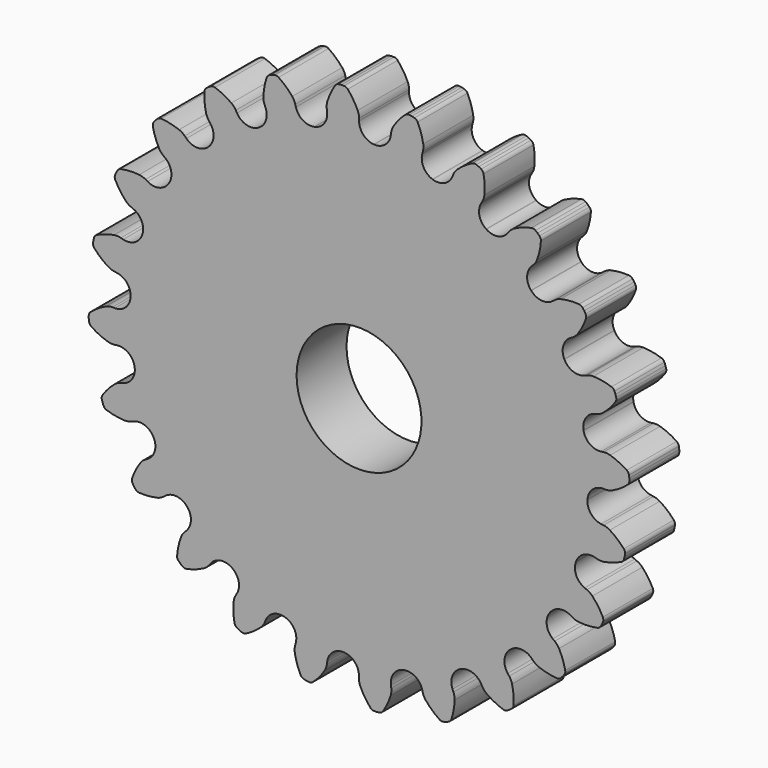
from build123d import *

# Parameters (mm, degrees)
F1_DEPTH = 6.35
F3_D     = 12.7


with BuildPart() as f1:
    # F0 (on Front) → F1 (new body)
    with BuildSketch(Plane.XZ):
        with BuildLine():
            ThreePointArc((-3.246921, 24.61846), (-3.533117, 23.476949), (-4.522605, 22.83987))
            ThreePointArc((-4.522605, 22.83987), (-4.542353, 22.835951), (-4.562098, 22.832014))
            ThreePointArc((-4.562098, 22.832014), (-5.720065, 23.041938), (-6.421313, 23.987034))
            Line((-6.421313, 23.987034), (-6.485774, 24.227606))
            ThreePointArc((-6.485774, 24.227606), (-6.607914, 24.544327), (-6.794114, 24.828157))
            ThreePointArc((-6.794114, 24.828157), (-7.440894, 25.507572), (-8.180709, 26.08429))
            ThreePointArc((-8.180709, 26.08429), (-8.380044, 26.162918), (-8.594066, 26.152359))
            Line((-8.594066, 26.152359), (-8.853896, 26.082737))
            Line((-8.853896, 26.082737), (-9.102417, 25.979797))
            ThreePointArc((-9.102417, 25.979797), (-9.278639, 25.857886), (-9.388917, 25.674159))
            ThreePointArc((-9.388917, 25.674159), (-9.624768, 24.766247), (-9.724291, 23.833496))
            ThreePointArc((-9.724291, 23.833496), (-9.699229, 23.494967), (-9.603322, 23.169341))
            Line((-9.603322, 23.169341), (-9.508011, 22.939241))
            ThreePointArc((-9.508011, 22.939241), (-9.48901, 21.762553), (-10.279894, 20.891084))
            ThreePointArc((-10.279894, 20.891084), (-10.297955, 20.882187), (-10.316008, 20.873274))
            ThreePointArc((-10.316008, 20.873274), (-11.488851, 20.776341), (-12.410813, 21.507738))
            Line((-12.410813, 21.507738), (-12.535342, 21.723428))
            ThreePointArc((-12.535342, 21.723428), (-12.735294, 21.997745), (-12.98861, 22.223712))
            ThreePointArc((-12.98861, 22.223712), (-13.789197, 22.712578), (-14.653069, 23.078167))
            ThreePointArc((-14.653069, 23.078167), (-14.865962, 23.102523), (-15.069958, 23.036931))
            Line((-15.069958, 23.036931), (-15.302916, 22.902433))
            Line((-15.302916, 22.902433), (-15.516325, 22.738678))
            ThreePointArc((-15.516325, 22.738678), (-15.654991, 22.575311), (-15.713959, 22.369302))
            ThreePointArc((-15.713959, 22.369302), (-15.706788, 21.431284), (-15.561507, 20.504558))
            ThreePointArc((-15.561507, 20.504558), (-15.44968, 20.18405), (-15.272763, 19.894342))
            Line((-15.272763, 19.894342), (-15.121146, 19.696751))
            ThreePointArc((-15.121146, 19.696751), (-14.798243, 18.565076), (-15.336626, 17.518605))
            ThreePointArc((-15.336626, 17.518605), (-15.351768, 17.505337), (-15.3669, 17.492055))
            ThreePointArc((-15.3669, 17.492055), (-16.47469, 17.094871), (-17.554537, 17.562724))
            Line((-17.554537, 17.562724), (-17.730648, 17.738835))
            ThreePointArc((-17.730648, 17.738835), (-17.994785, 17.952053), (-18.297954, 18.104758))
            ThreePointArc((-18.297954, 18.104758), (-19.197789, 18.369759), (-20.126847, 18.499304))
            ThreePointArc((-20.126847, 18.499304), (-20.33879, 18.467729), (-20.518858, 18.351574))
            Line((-20.518858, 18.351574), (-20.709068, 18.161365))
            Line((-20.709068, 18.161365), (-20.872822, 17.947956))
            ThreePointArc((-20.872822, 17.947956), (-20.96448, 17.754266), (-20.96812, 17.540015))
            ThreePointArc((-20.96812, 17.540015), (-20.718417, 16.635815), (-20.338231, 15.778267))
            ThreePointArc((-20.338231, 15.778267), (-20.147262, 15.497624), (-19.901391, 15.263577))
            Line((-19.901391, 15.263577), (-19.7038, 15.11196))
            ThreePointArc((-19.7038, 15.11196), (-19.099001, 14.102419), (-19.348191, 12.952262))
            ThreePointArc((-19.348191, 12.952262), (-19.359384, 12.935527), (-19.370562, 12.918782))
            ThreePointArc((-19.370562, 12.918782), (-20.337807, 12.248414), (-21.501948, 12.420841))
            Line((-21.501948, 12.420841), (-21.717639, 12.54537))
            ThreePointArc((-21.717639, 12.54537), (-22.027961, 12.682959), (-22.360323, 12.751994))
            ThreePointArc((-22.360323, 12.751994), (-23.298084, 12.775071), (-24.229013, 12.659744))
            ThreePointArc((-24.229013, 12.659744), (-24.425562, 12.574391), (-24.569432, 12.415588))
            Line((-24.569432, 12.415588), (-24.70393, 12.18263))
            Line((-24.70393, 12.18263), (-24.806871, 11.93411))
            ThreePointArc((-24.806871, 11.93411), (-24.845275, 11.723297), (-24.793339, 11.515405))
            ThreePointArc((-24.793339, 11.515405), (-24.31812, 10.706643), (-23.728939, 9.976714))
            ThreePointArc((-23.728939, 9.976714), (-23.471841, 9.75506), (-23.173772, 9.592624))
            Line((-23.173772, 9.592624), (-22.943672, 9.497314))
            ThreePointArc((-22.943672, 9.497314), (-22.098193, 8.678705), (-22.04121, 7.503244))
            ThreePointArc((-22.04121, 7.503244), (-22.04769, 7.484182), (-22.054153, 7.465115))
            ThreePointArc((-22.054153, 7.465115), (-22.814936, 6.567247), (-23.984037, 6.432497))
            Line((-23.984037, 6.432497), (-24.224609, 6.496958))
            ThreePointArc((-24.224609, 6.496958), (-24.559967, 6.549542), (-24.898872, 6.530203))
            ThreePointArc((-24.898872, 6.530203), (-25.810653, 6.309783), (-26.680012, 5.957444))
            ThreePointArc((-26.680012, 5.957444), (-26.847773, 5.824128), (-26.94564, 5.6335))
            Line((-26.94564, 5.6335), (-27.015261, 5.37367))
            Line((-27.015261, 5.37367), (-27.050372, 5.106974))
            ThreePointArc((-27.050372, 5.106974), (-27.032906, 4.893405), (-26.928932, 4.706038))
            ThreePointArc((-26.928932, 4.706038), (-26.260583, 4.04783), (-25.502559, 3.495265))
            ThreePointArc((-25.502559, 3.495265), (-25.196852, 3.347705), (-24.866898, 3.26795))
            Line((-24.866898, 3.26795), (-24.619971, 3.235441))
            ThreePointArc((-24.619971, 3.235441), (-23.591429, 2.663553), (-23.232156, 1.542892))
            ThreePointArc((-23.232156, 1.542892), (-23.233482, 1.522803), (-23.23479, 1.502712))
            ThreePointArc((-23.23479, 1.502712), (-23.737265, 0.438534), (-24.831654, 0.005789))
            Line((-24.831654, 0.005789), (-25.080712, 0.005789))
            ThreePointArc((-25.080712, 0.005789), (-25.418253, -0.030216), (-25.740604, -0.13661))
            ThreePointArc((-25.740604, -0.13661), (-26.564268, -0.585506), (-27.312813, -1.150847))
            ThreePointArc((-27.312813, -1.150847), (-27.440353, -1.323039), (-27.485547, -1.532501))
            Line((-27.485547, -1.532501), (-27.485547, -1.801498))
            Line((-27.485547, -1.801498), (-27.450435, -2.068193))
            ThreePointArc((-27.450435, -2.068193), (-27.378288, -2.269964), (-27.229364, -2.424037))
            ThreePointArc((-27.229364, -2.424037), (-26.413431, -2.886836), (-25.538221, -3.224381))
            ThreePointArc((-25.538221, -3.224381), (-25.20474, -3.287791), (-24.865387, -3.27943))
            Line((-24.865387, -3.27943), (-24.61846, -3.246921))
            ThreePointArc((-24.61846, -3.246921), (-23.476949, -3.533117), (-22.83987, -4.522605))
            ThreePointArc((-22.83987, -4.522605), (-22.835951, -4.542353), (-22.832014, -4.562098))
            ThreePointArc((-22.832014, -4.562098), (-23.041938, -5.720065), (-23.987034, -6.421313))
            Line((-23.987034, -6.421313), (-24.227606, -6.485774))
            ThreePointArc((-24.227606, -6.485774), (-24.544327, -6.607914), (-24.828157, -6.794114))
            ThreePointArc((-24.828157, -6.794114), (-25.507572, -7.440894), (-26.08429, -8.180709))
            ThreePointArc((-26.08429, -8.180709), (-26.162918, -8.380044), (-26.152359, -8.594066))
            Line((-26.152359, -8.594066), (-26.082737, -8.853896))
            Line((-26.082737, -8.853896), (-25.979797, -9.102417))
            ThreePointArc((-25.979797, -9.102417), (-25.857886, -9.278639), (-25.674159, -9.388917))
            ThreePointArc((-25.674159, -9.388917), (-24.766247, -9.624768), (-23.833496, -9.724291))
            ThreePointArc((-23.833496, -9.724291), (-23.494967, -9.699229), (-23.169341, -9.603322))
            Line((-23.169341, -9.603322), (-22.939241, -9.508011))
            ThreePointArc((-22.939241, -9.508011), (-21.762553, -9.48901), (-20.891084, -10.279894))
            ThreePointArc((-20.891084, -10.279894), (-20.882187, -10.297955), (-20.873274, -10.316008))
            ThreePointArc((-20.873274, -10.316008), (-20.776341, -11.488851), (-21.507738, -12.410813))
            Line((-21.507738, -12.410813), (-21.723428, -12.535342))
            ThreePointArc((-21.723428, -12.535342), (-21.997745, -12.735294), (-22.223712, -12.98861))
            ThreePointArc((-22.223712, -12.98861), (-22.712578, -13.789197), (-23.078167, -14.653069))
            ThreePointArc((-23.078167, -14.653069), (-23.102523, -14.865962), (-23.036931, -15.069958))
            Line((-23.036931, -15.069958), (-22.902433, -15.302916))
            Line((-22.902433, -15.302916), (-22.738678, -15.516325))
            ThreePointArc((-22.738678, -15.516325), (-22.575311, -15.654991), (-22.369302, -15.713959))
            ThreePointArc((-22.369302, -15.713959), (-21.431284, -15.706788), (-20.504558, -15.561507))
            ThreePointArc((-20.504558, -15.561507), (-20.18405, -15.44968), (-19.894342, -15.272763))
            Line((-19.894342, -15.272763), (-19.696751, -15.121146))
            ThreePointArc((-19.696751, -15.121146), (-18.565076, -14.798243), (-17.518605, -15.336626))
            ThreePointArc((-17.518605, -15.336626), (-17.505337, -15.351768), (-17.492055, -15.3669))
            ThreePointArc((-17.492055, -15.3669), (-17.094871, -16.47469), (-17.562724, -17.554537))
            Line((-17.562724, -17.554537), (-17.738835, -17.730648))
            ThreePointArc((-17.738835, -17.730648), (-17.952053, -17.994785), (-18.104758, -18.297954))
            ThreePointArc((-18.104758, -18.297954), (-18.369759, -19.197789), (-18.499304, -20.126847))
            ThreePointArc((-18.499304, -20.126847), (-18.467729, -20.33879), (-18.351574, -20.518858))
            Line((-18.351574, -20.518858), (-18.161365, -20.709068))
            Line((-18.161365, -20.709068), (-17.947956, -20.872822))
            ThreePointArc((-17.947956, -20.872822), (-17.754266, -20.96448), (-17.540015, -20.96812))
            ThreePointArc((-17.540015, -20.96812), (-16.635815, -20.718417), (-15.778267, -20.338231))
            ThreePointArc((-15.778267, -20.338231), (-15.497624, -20.147262), (-15.263577, -19.901391))
            Line((-15.263577, -19.901391), (-15.11196, -19.7038))
            ThreePointArc((-15.11196, -19.7038), (-14.102419, -19.099001), (-12.952262, -19.348191))
            ThreePointArc((-12.952262, -19.348191), (-12.935527, -19.359384), (-12.918782, -19.370562))
            ThreePointArc((-12.918782, -19.370562), (-12.248414, -20.337807), (-12.420841, -21.501948))
            Line((-12.420841, -21.501948), (-12.54537, -21.717639))
            ThreePointArc((-12.54537, -21.717639), (-12.682959, -22.027961), (-12.751994, -22.360323))
            ThreePointArc((-12.751994, -22.360323), (-12.775071, -23.298084), (-12.659744, -24.229013))
            ThreePointArc((-12.659744, -24.229013), (-12.574391, -24.425562), (-12.415588, -24.569432))
            Line((-12.415588, -24.569432), (-12.18263, -24.70393))
            Line((-12.18263, -24.70393), (-11.93411, -24.806871))
            ThreePointArc((-11.93411, -24.806871), (-11.723297, -24.845275), (-11.515405, -24.793339))
            ThreePointArc((-11.515405, -24.793339), (-10.706643, -24.31812), (-9.976714, -23.728939))
            ThreePointArc((-9.976714, -23.728939), (-9.75506, -23.471841), (-9.592624, -23.173772))
            Line((-9.592624, -23.173772), (-9.497314, -22.943672))
            ThreePointArc((-9.497314, -22.943672), (-8.678705, -22.098193), (-7.503244, -22.04121))
            ThreePointArc((-7.503244, -22.04121), (-7.484182, -22.04769), (-7.465115, -22.054153))
            ThreePointArc((-7.465115, -22.054153), (-6.567247, -22.814936), (-6.432497, -23.984037))
            Line((-6.432497, -23.984037), (-6.496958, -24.224609))
            ThreePointArc((-6.496958, -24.224609), (-6.549542, -24.559967), (-6.530203, -24.898872))
            ThreePointArc((-6.530203, -24.898872), (-6.309783, -25.810653), (-5.957444, -26.680012))
            ThreePointArc((-5.957444, -26.680012), (-5.824128, -26.847773), (-5.6335, -26.94564))
            Line((-5.6335, -26.94564), (-5.37367, -27.015261))
            Line((-5.37367, -27.015261), (-5.106974, -27.050372))
            ThreePointArc((-5.106974, -27.050372), (-4.893405, -27.032906), (-4.706038, -26.928932))
            ThreePointArc((-4.706038, -26.928932), (-4.04783, -26.260583), (-3.495265, -25.502559))
            ThreePointArc((-3.495265, -25.502559), (-3.347705, -25.196852), (-3.26795, -24.866898))
            Line((-3.26795, -24.866898), (-3.235441, -24.619971))
            ThreePointArc((-3.235441, -24.619971), (-2.663553, -23.591429), (-1.542892, -23.232156))
            ThreePointArc((-1.542892, -23.232156), (-1.522803, -23.233482), (-1.502712, -23.23479))
            ThreePointArc((-1.502712, -23.23479), (-0.438534, -23.737265), (-0.005789, -24.831654))
            Line((-0.005789, -24.831654), (-0.005789, -25.080712))
            ThreePointArc((-0.005789, -25.080712), (0.030216, -25.418253), (0.13661, -25.740604))
            ThreePointArc((0.13661, -25.740604), (0.585506, -26.564268), (1.150847, -27.312813))
            ThreePointArc((1.150847, -27.312813), (1.323039, -27.440353), (1.532501, -27.485547))
            Line((1.532501, -27.485547), (1.801498, -27.485547))
            Line((1.801498, -27.485547), (2.068193, -27.450435))
            ThreePointArc((2.068193, -27.450435), (2.269964, -27.378288), (2.424037, -27.229364))
            ThreePointArc((2.424037, -27.229364), (2.886836, -26.413431), (3.224381, -25.538221))
            ThreePointArc((3.224381, -25.538221), (3.287791, -25.20474), (3.27943, -24.865387))
            Line((3.27943, -24.865387), (3.246921, -24.61846))
            ThreePointArc((3.246921, -24.61846), (3.533117, -23.476949), (4.522605, -22.83987))
            ThreePointArc((4.522605, -22.83987), (4.542353, -22.835951), (4.562098, -22.832014))
            ThreePointArc((4.562098, -22.832014), (5.720065, -23.041938), (6.421313, -23.987034))
            Line((6.421313, -23.987034), (6.485774, -24.227606))
            ThreePointArc((6.485774, -24.227606), (6.607914, -24.544327), (6.794114, -24.828157))
            ThreePointArc((6.794114, -24.828157), (7.440894, -25.507572), (8.180709, -26.08429))
            ThreePointArc((8.180709, -26.08429), (8.380044, -26.162918), (8.594066, -26.152359))
            Line((8.594066, -26.152359), (8.853896, -26.082737))
            Line((8.853896, -26.082737), (9.102417, -25.979797))
            ThreePointArc((9.102417, -25.979797), (9.278639, -25.857886), (9.388917, -25.674159))
            ThreePointArc((9.388917, -25.674159), (9.624768, -24.766247), (9.724291, -23.833496))
            ThreePointArc((9.724291, -23.833496), (9.699229, -23.494967), (9.603322, -23.169341))
            Line((9.603322, -23.169341), (9.508011, -22.939241))
            ThreePointArc((9.508011, -22.939241), (9.48901, -21.762553), (10.279894, -20.891084))
            ThreePointArc((10.279894, -20.891084), (10.297955, -20.882187), (10.316008, -20.873274))
            ThreePointArc((10.316008, -20.873274), (11.488851, -20.776341), (12.410813, -21.507738))
            Line((12.410813, -21.507738), (12.535342, -21.723428))
            ThreePointArc((12.535342, -21.723428), (12.735294, -21.997745), (12.98861, -22.223712))
            ThreePointArc((12.98861, -22.223712), (13.789197, -22.712578), (14.653069, -23.078167))
            ThreePointArc((14.653069, -23.078167), (14.865962, -23.102523), (15.069958, -23.036931))
            Line((15.069958, -23.036931), (15.302916, -22.902433))
            Line((15.302916, -22.902433), (15.516325, -22.738678))
            ThreePointArc((15.516325, -22.738678), (15.654991, -22.575311), (15.713959, -22.369302))
            ThreePointArc((15.713959, -22.369302), (15.706788, -21.431284), (15.561507, -20.504558))
            ThreePointArc((15.561507, -20.504558), (15.44968, -20.18405), (15.272763, -19.894342))
            Line((15.272763, -19.894342), (15.121146, -19.696751))
            ThreePointArc((15.121146, -19.696751), (14.798243, -18.565076), (15.336626, -17.518605))
            ThreePointArc((15.336626, -17.518605), (15.351768, -17.505337), (15.3669, -17.492055))
            ThreePointArc((15.3669, -17.492055), (16.47469, -17.094871), (17.554537, -17.562724))
            Line((17.554537, -17.562724), (17.730648, -17.738835))
            ThreePointArc((17.730648, -17.738835), (17.994785, -17.952053), (18.297954, -18.104758))
            ThreePointArc((18.297954, -18.104758), (19.197789, -18.369759), (20.126847, -18.499304))
            ThreePointArc((20.126847, -18.499304), (20.33879, -18.467729), (20.518858, -18.351574))
            Line((20.518858, -18.351574), (20.709068, -18.161365))
            Line((20.709068, -18.161365), (20.872822, -17.947956))
            ThreePointArc((20.872822, -17.947956), (20.96448, -17.754266), (20.96812, -17.540015))
            ThreePointArc((20.96812, -17.540015), (20.718417, -16.635815), (20.338231, -15.778267))
            ThreePointArc((20.338231, -15.778267), (20.147262, -15.497624), (19.901391, -15.263577))
            Line((19.901391, -15.263577), (19.7038, -15.11196))
            ThreePointArc((19.7038, -15.11196), (19.099001, -14.102419), (19.348191, -12.952262))
            ThreePointArc((19.348191, -12.952262), (19.359384, -12.935527), (19.370562, -12.918782))
            ThreePointArc((19.370562, -12.918782), (20.337807, -12.248414), (21.501948, -12.420841))
            Line((21.501948, -12.420841), (21.717639, -12.54537))
            ThreePointArc((21.717639, -12.54537), (22.027961, -12.682959), (22.360323, -12.751994))
            ThreePointArc((22.360323, -12.751994), (23.298084, -12.775071), (24.229013, -12.659744))
            ThreePointArc((24.229013, -12.659744), (24.425562, -12.574391), (24.569432, -12.415588))
            Line((24.569432, -12.415588), (24.70393, -12.18263))
            Line((24.70393, -12.18263), (24.806871, -11.93411))
            ThreePointArc((24.806871, -11.93411), (24.845275, -11.723297), (24.793339, -11.515405))
            ThreePointArc((24.793339, -11.515405), (24.31812, -10.706643), (23.728939, -9.976714))
            ThreePointArc((23.728939, -9.976714), (23.471841, -9.75506), (23.173772, -9.592624))
            Line((23.173772, -9.592624), (22.943672, -9.497314))
            ThreePointArc((22.943672, -9.497314), (22.098193, -8.678705), (22.04121, -7.503244))
            ThreePointArc((22.04121, -7.503244), (22.04769, -7.484182), (22.054153, -7.465115))
            ThreePointArc((22.054153, -7.465115), (22.814936, -6.567247), (23.984037, -6.432497))
            Line((23.984037, -6.432497), (24.224609, -6.496958))
            ThreePointArc((24.224609, -6.496958), (24.559967, -6.549542), (24.898872, -6.530203))
            ThreePointArc((24.898872, -6.530203), (25.810653, -6.309783), (26.680012, -5.957444))
            ThreePointArc((26.680012, -5.957444), (26.847773, -5.824128), (26.94564, -5.6335))
            Line((26.94564, -5.6335), (27.015261, -5.37367))
            Line((27.015261, -5.37367), (27.050372, -5.106974))
            ThreePointArc((27.050372, -5.106974), (27.032906, -4.893405), (26.928932, -4.706038))
            ThreePointArc((26.928932, -4.706038), (26.260583, -4.04783), (25.502559, -3.495265))
            ThreePointArc((25.502559, -3.495265), (25.196852, -3.347705), (24.866898, -3.26795))
            Line((24.866898, -3.26795), (24.619971, -3.235441))
            ThreePointArc((24.619971, -3.235441), (23.591429, -2.663553), (23.232156, -1.542892))
            ThreePointArc((23.232156, -1.542892), (23.233482, -1.522803), (23.23479, -1.502712))
            ThreePointArc((23.23479, -1.502712), (23.737265, -0.438534), (24.831654, -0.005789))
            Line((24.831654, -0.005789), (25.080712, -0.005789))
            ThreePointArc((25.080712, -0.005789), (25.418253, 0.030216), (25.740604, 0.13661))
            ThreePointArc((25.740604, 0.13661), (26.564268, 0.585506), (27.312813, 1.150847))
            ThreePointArc((27.312813, 1.150847), (27.440353, 1.323039), (27.485547, 1.532501))
            Line((27.485547, 1.532501), (27.485547, 1.801498))
            Line((27.485547, 1.801498), (27.450435, 2.068193))
            ThreePointArc((27.450435, 2.068193), (27.378288, 2.269964), (27.229364, 2.424037))
            ThreePointArc((27.229364, 2.424037), (26.413431, 2.886836), (25.538221, 3.224381))
            ThreePointArc((25.538221, 3.224381), (25.20474, 3.287791), (24.865387, 3.27943))
            Line((24.865387, 3.27943), (24.61846, 3.246921))
            ThreePointArc((24.61846, 3.246921), (23.476949, 3.533117), (22.83987, 4.522605))
            ThreePointArc((22.83987, 4.522605), (22.835951, 4.542353), (22.832014, 4.562098))
            ThreePointArc((22.832014, 4.562098), (23.041938, 5.720065), (23.987034, 6.421313))
            Line((23.987034, 6.421313), (24.227606, 6.485774))
            ThreePointArc((24.227606, 6.485774), (24.544327, 6.607914), (24.828157, 6.794114))
            ThreePointArc((24.828157, 6.794114), (25.507572, 7.440894), (26.08429, 8.180709))
            ThreePointArc((26.08429, 8.180709), (26.162918, 8.380044), (26.152359, 8.594066))
            Line((26.152359, 8.594066), (26.082737, 8.853896))
            Line((26.082737, 8.853896), (25.979797, 9.102417))
            ThreePointArc((25.979797, 9.102417), (25.857886, 9.278639), (25.674159, 9.388917))
            ThreePointArc((25.674159, 9.388917), (24.766247, 9.624768), (23.833496, 9.724291))
            ThreePointArc((23.833496, 9.724291), (23.494967, 9.699229), (23.169341, 9.603322))
            Line((23.169341, 9.603322), (22.939241, 9.508011))
            ThreePointArc((22.939241, 9.508011), (21.762553, 9.48901), (20.891084, 10.279894))
            ThreePointArc((20.891084, 10.279894), (20.882187, 10.297955), (20.873274, 10.316008))
            ThreePointArc((20.873274, 10.316008), (20.776341, 11.488851), (21.507738, 12.410813))
            Line((21.507738, 12.410813), (21.723428, 12.535342))
            ThreePointArc((21.723428, 12.535342), (21.997745, 12.735294), (22.223712, 12.98861))
            ThreePointArc((22.223712, 12.98861), (22.712578, 13.789197), (23.078167, 14.653069))
            ThreePointArc((23.078167, 14.653069), (23.102523, 14.865962), (23.036931, 15.069958))
            Line((23.036931, 15.069958), (22.902433, 15.302916))
            Line((22.902433, 15.302916), (22.738678, 15.516325))
            ThreePointArc((22.738678, 15.516325), (22.575311, 15.654991), (22.369302, 15.713959))
            ThreePointArc((22.369302, 15.713959), (21.431284, 15.706788), (20.504558, 15.561507))
            ThreePointArc((20.504558, 15.561507), (20.18405, 15.44968), (19.894342, 15.272763))
            Line((19.894342, 15.272763), (19.696751, 15.121146))
            ThreePointArc((19.696751, 15.121146), (18.565076, 14.798243), (17.518605, 15.336626))
            ThreePointArc((17.518605, 15.336626), (17.505337, 15.351768), (17.492055, 15.3669))
            ThreePointArc((17.492055, 15.3669), (17.094871, 16.47469), (17.562724, 17.554537))
            Line((17.562724, 17.554537), (17.738835, 17.730648))
            ThreePointArc((17.738835, 17.730648), (17.952053, 17.994785), (18.104758, 18.297954))
            ThreePointArc((18.104758, 18.297954), (18.369759, 19.197789), (18.499304, 20.126847))
            ThreePointArc((18.499304, 20.126847), (18.467729, 20.33879), (18.351574, 20.518858))
            Line((18.351574, 20.518858), (18.161365, 20.709068))
            Line((18.161365, 20.709068), (17.947956, 20.872822))
            ThreePointArc((17.947956, 20.872822), (17.754266, 20.96448), (17.540015, 20.96812))
            ThreePointArc((17.540015, 20.96812), (16.635815, 20.718417), (15.778267, 20.338231))
            ThreePointArc((15.778267, 20.338231), (15.497624, 20.147262), (15.263577, 19.901391))
            Line((15.263577, 19.901391), (15.11196, 19.7038))
            ThreePointArc((15.11196, 19.7038), (14.102419, 19.099001), (12.952262, 19.348191))
            ThreePointArc((12.952262, 19.348191), (12.935527, 19.359384), (12.918782, 19.370562))
            ThreePointArc((12.918782, 19.370562), (12.248414, 20.337807), (12.420841, 21.501948))
            Line((12.420841, 21.501948), (12.54537, 21.717639))
            ThreePointArc((12.54537, 21.717639), (12.682959, 22.027961), (12.751994, 22.360323))
            ThreePointArc((12.751994, 22.360323), (12.775071, 23.298084), (12.659744, 24.229013))
            ThreePointArc((12.659744, 24.229013), (12.574391, 24.425562), (12.415588, 24.569432))
            Line((12.415588, 24.569432), (12.18263, 24.70393))
            Line((12.18263, 24.70393), (11.93411, 24.806871))
            ThreePointArc((11.93411, 24.806871), (11.723297, 24.845275), (11.515405, 24.793339))
            ThreePointArc((11.515405, 24.793339), (10.706643, 24.31812), (9.976714, 23.728939))
            ThreePointArc((9.976714, 23.728939), (9.75506, 23.471841), (9.592624, 23.173772))
            Line((9.592624, 23.173772), (9.497314, 22.943672))
            ThreePointArc((9.497314, 22.943672), (8.678705, 22.098193), (7.503244, 22.04121))
            ThreePointArc((7.503244, 22.04121), (7.484182, 22.04769), (7.465115, 22.054153))
            ThreePointArc((7.465115, 22.054153), (6.567247, 22.814936), (6.432497, 23.984037))
            Line((6.432497, 23.984037), (6.496958, 24.224609))
            ThreePointArc((6.496958, 24.224609), (6.549542, 24.559967), (6.530203, 24.898872))
            ThreePointArc((6.530203, 24.898872), (6.309783, 25.810653), (5.957444, 26.680012))
            ThreePointArc((5.957444, 26.680012), (5.824128, 26.847773), (5.6335, 26.94564))
            Line((5.6335, 26.94564), (5.37367, 27.015261))
            Line((5.37367, 27.015261), (5.106974, 27.050372))
            ThreePointArc((5.106974, 27.050372), (4.893405, 27.032906), (4.706038, 26.928932))
            ThreePointArc((4.706038, 26.928932), (4.04783, 26.260583), (3.495265, 25.502559))
            ThreePointArc((3.495265, 25.502559), (3.347705, 25.196852), (3.26795, 24.866898))
            Line((3.26795, 24.866898), (3.235441, 24.619971))
            ThreePointArc((3.235441, 24.619971), (2.663553, 23.591429), (1.542892, 23.232156))
            ThreePointArc((1.542892, 23.232156), (1.522803, 23.233482), (1.502712, 23.23479))
            ThreePointArc((1.502712, 23.23479), (0.438534, 23.737265), (0.005789, 24.831654))
            Line((0.005789, 24.831654), (0.005789, 25.080712))
            ThreePointArc((0.005789, 25.080712), (-0.030216, 25.418253), (-0.13661, 25.740604))
            ThreePointArc((-0.13661, 25.740604), (-0.585506, 26.564268), (-1.150847, 27.312813))
            ThreePointArc((-1.150847, 27.312813), (-1.323039, 27.440353), (-1.532501, 27.485547))
            Line((-1.532501, 27.485547), (-1.801498, 27.485547))
            Line((-1.801498, 27.485547), (-2.068193, 27.450435))
            ThreePointArc((-2.068193, 27.450435), (-2.269964, 27.378288), (-2.424037, 27.229364))
            ThreePointArc((-2.424037, 27.229364), (-2.886836, 26.413431), (-3.224381, 25.538221))
            ThreePointArc((-3.224381, 25.538221), (-3.287791, 25.20474), (-3.27943, 24.865387))
            Line((-3.27943, 24.865387), (-3.246921, 24.61846))
        make_face()
    extrude(amount=F1_DEPTH)

    # F3 (through all)
    with Locations(Plane.XZ.offset(6.35)):
        with Locations((0, 0)):
            Hole(F3_D / 2)


solid = f1.part
